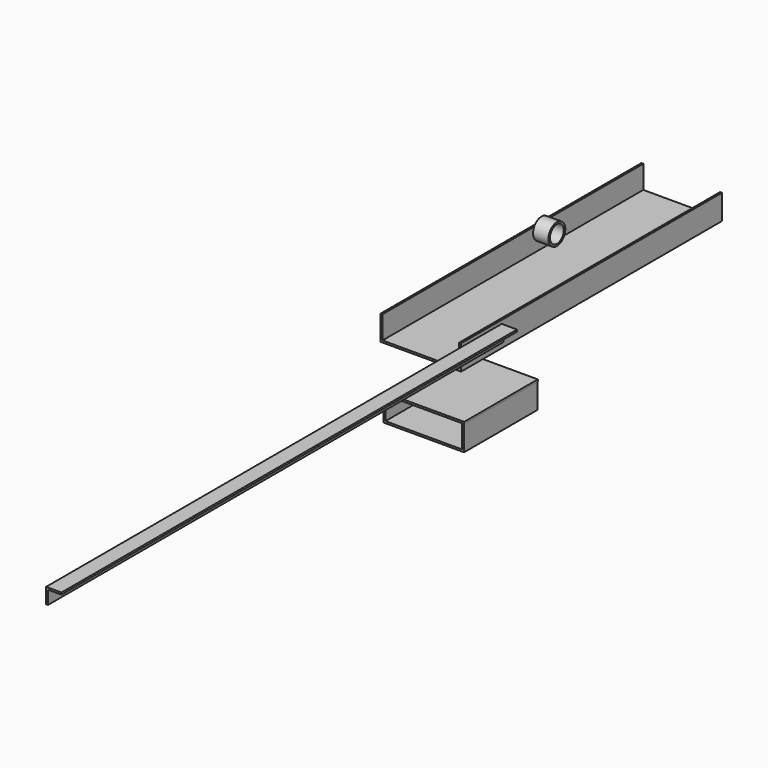
from build123d import *

# Parameters (mm, degrees)
F0_W     = 44.45
F0_H     = 6.35
F1_DEPTH = 1885.95
F2_R     = 34.925
F2_R_2   = 28.575
F3_DEPTH = 50.8
F4_W     = 6.35
F4_H     = 76.2
F5_DEPTH = 1079.5
F6_W     = 6.35
F6_H     = 76.2
F7_DEPTH = 304.8


with BuildPart() as f1:
    # F0 (on Front) → F1 (new body)
    with BuildSketch(Plane.XZ):
        Polygon((-7.253912, 29.706775), (-7.253912, -21.093225), (-0.903912, -21.093225), (-0.903912, 23.356775), (-0.903912, 29.706775), align=None)
        with Locations((21.321088, 26.531775)):
            Rectangle(F0_W, F0_H)
    extrude(amount=F1_DEPTH)


with BuildPart() as f3:
    # F2 (on Right) → F3 (new body)
    with BuildSketch(Plane.YZ):
        with Locations((155.850589, 246.942848)):
            Circle(F2_R)
        with Locations((155.850589, 246.942848)):
            Circle(F2_R_2, mode=Mode.SUBTRACT)
    extrude(amount=F3_DEPTH)


with BuildPart() as f5:
    # F4 (on Front) → F5 (new body)
    with BuildSketch(Plane.XZ):
        with Locations((-405.090099, -108.817868)):
            Rectangle(F4_W, F4_H)
        with Locations((-144.740099, -108.817868)):
            Rectangle(F4_W, F4_H)
        Polygon((-408.265099, -146.917868), (-408.265099, -153.267868), (-141.565099, -153.267868), (-141.565099, -146.917868), (-147.915099, -146.917868), (-401.915099, -146.917868), align=None)
    extrude(amount=-F5_DEPTH)


with BuildPart() as f7:
    # F6 (on Front) → F7 (new body)
    with BuildSketch(Plane.XZ):
        Polygon((-398.527593, -296.452982), (-398.527593, -302.802982), (-392.177593, -302.802982), (-138.177593, -302.802982), (-131.827593, -302.802982), (-131.628782, -302.802982), (-131.628782, -296.452982), align=None)
        with Locations((-395.352593, -340.902982)):
            Rectangle(F6_W, F6_H)
        Polygon((-398.527593, -379.002982), (-398.527593, -385.352982), (-131.827593, -385.352982), (-131.827593, -379.002982), (-138.177593, -379.002982), (-392.177593, -379.002982), align=None)
        with Locations((-135.002593, -340.902982)):
            Rectangle(F6_W, F6_H)
    extrude(amount=-F7_DEPTH)


solid = Compound([f1.part, f3.part, f5.part, f7.part])
